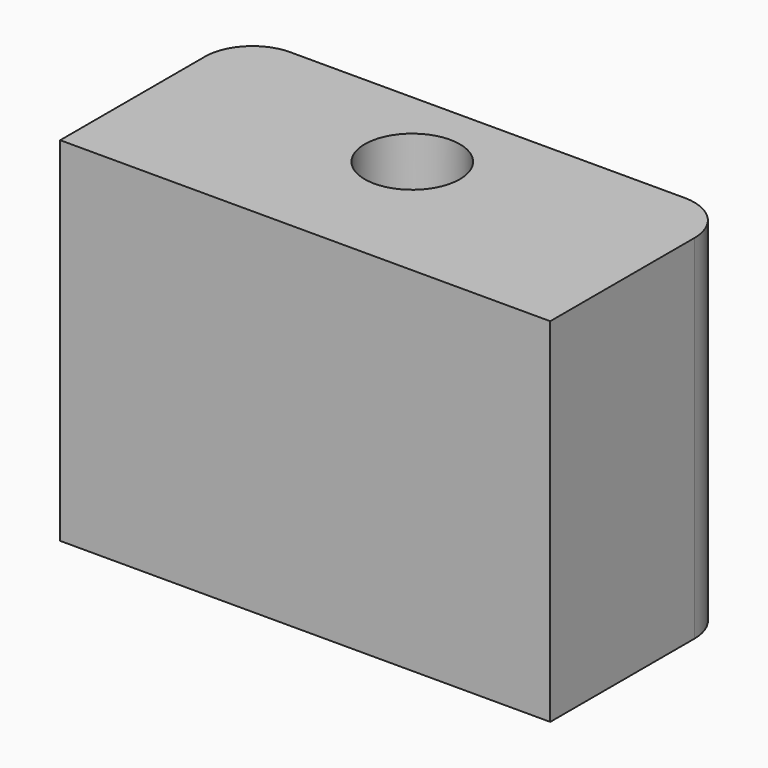
from build123d import *

# Parameters (mm, degrees)
F0_R     = 3.422488
F1_DEPTH = 25.4


with BuildPart() as f1:
    # F0 (on Top) → F1 (new body)
    with BuildSketch(Plane.XY):
        with BuildLine():
            Line((18.858321, 7.386159), (-9.542825, 7.386159))
            ThreePointArc((-9.542825, 7.386159), (-11.952039, 6.388229), (-12.949969, 3.979015))
            Line((-12.949969, 3.979015), (-12.949969, -9.063365))
            Line((-12.949969, -9.063365), (22.335874, -9.063365))
            Line((22.335874, -9.063365), (22.335874, 3.908606))
            ThreePointArc((22.335874, 3.908606), (21.317322, 6.367607), (18.858321, 7.386159))
        make_face()
        with Locations((4.144635, 1.257905)):
            Circle(F0_R, mode=Mode.SUBTRACT)
    extrude(amount=F1_DEPTH)


solid = f1.part
